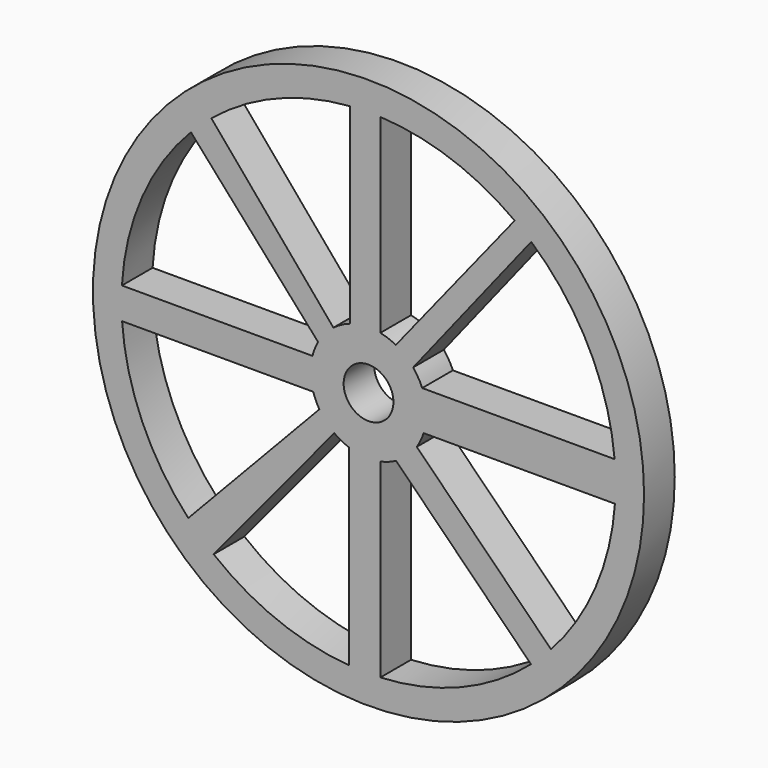
from build123d import *

# Parameters (mm, degrees)
F0_R     = 45.6259896436
F0_R_2   = 4.1211273184
F1_DEPTH = 6.35


with BuildPart() as f1:
    # F0 (on Front) → F1 (new body)
    with BuildSketch(Plane.XZ):
        Circle(F0_R)
        with BuildLine():
            ThreePointArc((26.9387830624, 30.7775847934), (36.470954286, 18.5155948342), (40.7444896447, 3.5838976254))
            ThreePointArc((40.7444896447, 3.5838976254), (40.8624582094, 1.7936743517), (40.9018062999, 0))
            ThreePointArc((40.9018062999, 0), (40.8759815199, -1.4532354863), (40.7985397907, -2.9046358709))
            ThreePointArc((40.7985397907, -2.9046358709), (37.5893922938, -16.1243711684), (30.2221637026, -27.5604531844))
            ThreePointArc((30.2221637026, -27.5604531844), (28.607441295, -29.2330645186), (26.9002945611, -30.8112302761))
            ThreePointArc((26.9002945611, -30.8112302761), (15.2785050027, -37.9410733043), (1.9589534657, -40.8548682523))
            ThreePointArc((1.9589534657, -40.8548682523), (-0.6279132634, -40.8969862402), (-3.2122676555, -40.7754717337))
            ThreePointArc((-3.2122676555, -40.7754717337), (-15.0951627835, -38.0143896325), (-25.6351881809, -31.8715372319))
            ThreePointArc((-25.6351881809, -31.8715372319), (-27.8094281015, -29.9932236891), (-29.8464395577, -27.9669055193))
            ThreePointArc((-29.8464395577, -27.9669055193), (-37.4955686427, -16.3413613495), (-40.8041913624, -2.8241327614))
            ThreePointArc((-40.8041913624, -2.8241327614), (-40.9011586976, -0.2301646997), (-40.8333908562, 2.3647303828))
            ThreePointArc((-40.8333908562, 2.3647303828), (-37.4601102977, 16.4224813922), (-29.4070104311, 28.4286034849))
            ThreePointArc((-29.4070104311, 28.4286034849), (-27.7581509338, 30.0406859997), (-26.0210613004, 31.5572832702))
            ThreePointArc((-26.0210613004, 31.5572832702), (-15.2607911904, 37.9482016812), (-3.071760695, 40.7862972679))
            ThreePointArc((-3.071760695, 40.7862972679), (-0.5574589468, 40.8980072634), (1.9589534657, 40.8548682523))
            ThreePointArc((1.9589534657, 40.8548682523), (13.6603015391, 38.5532608278), (24.2003808104, 32.9742221626))
            ThreePointArc((24.2003808104, 32.9742221626), (25.5931597177, 31.9052963356), (26.9387830624, 30.7775847934))
        make_face(mode=Mode.SUBTRACT)
        with BuildLine():
            ThreePointArc((9.127670154, -2.9046358709), (9.4652622904, -1.4697216595), (9.578688427, 0))
            ThreePointArc((9.578688427, 0), (9.403147418, 1.8254014949), (8.8829583919, 3.5838976254))
            ThreePointArc((8.8829583919, 3.5838976254), (8.230543526, 4.8999413516), (7.3845797964, 6.1007584129))
            ThreePointArc((7.3845797964, 6.1007584129), (6.0673005076, 7.4120939372), (4.5215615521, 8.4443326032))
            ThreePointArc((4.5215615521, 8.4443326032), (3.2735880938, 9.0019382898), (1.9589534657, 9.3762344948))
            ThreePointArc((1.9589534657, 9.3762344948), (-0.5767185533, 9.5613109819), (-3.071760695, 9.0727921951))
            ThreePointArc((-3.071760695, 9.0727921951), (-4.5020405313, 8.4547562375), (-5.8131998002, 7.6130138621))
            ThreePointArc((-5.8131998002, 7.6130138621), (-7.2315663483, 6.2813788401), (-8.3516090682, 4.6906180781))
            ThreePointArc((-8.3516090682, 4.6906180781), (-8.8932718668, 3.5582281386), (-9.282204598, 2.3647303828))
            ThreePointArc((-9.282204598, 2.3647303828), (-9.5757156031, -0.2386266333), (-9.1528982365, -2.8241327614))
            ThreePointArc((-9.1528982365, -2.8241327614), (-8.7176421964, -3.9691291889), (-8.1398212241, -5.0492160205))
            ThreePointArc((-8.1398212241, -5.0492160205), (-7.0331611015, -6.5027622517), (-5.6706666198, -7.7197676176))
            ThreePointArc((-5.6706666198, -7.7197676176), (-4.4890853229, -8.461641977), (-3.2122676555, -9.0240018003))
            ThreePointArc((-3.2122676555, -9.0240018003), (-0.6509347758, -9.5565451864), (1.9589534657, -9.3762344948))
            ThreePointArc((1.9589534657, -9.3762344948), (3.2963804694, -8.9936170578), (4.5642841947, -8.4213171043))
            ThreePointArc((4.5642841947, -8.4213171043), (6.4725367152, -7.0609872152), (7.9933647781, -5.2780101845))
            ThreePointArc((7.9933647781, -5.2780101845), (8.6423773173, -4.1304462578), (9.127670154, -2.9046358709))
        make_face()
        Circle(F0_R_2, mode=Mode.SUBTRACT)
        with BuildLine():
            ThreePointArc((8.8829583919, 3.5838976254), (9.403147418, 1.8254014949), (9.578688427, 0))
            ThreePointArc((9.578688427, 0), (9.4652622904, -1.4697216595), (9.127670154, -2.9046358709))
            Line((9.127670154, -2.9046358709), (40.7985397907, -2.9046358709))
            ThreePointArc((40.7985397907, -2.9046358709), (40.8759815199, -1.4532354863), (40.9018062999, 0))
            ThreePointArc((40.9018062999, 0), (40.8624582094, 1.7936743517), (40.7444896447, 3.5838976254))
            Line((40.7444896447, 3.5838976254), (8.8829583919, 3.5838976254))
        make_face()
        with BuildLine():
            ThreePointArc((-9.1528982365, -2.8241327614), (-9.5757156031, -0.2386266333), (-9.282204598, 2.3647303828))
            Line((-9.282204598, 2.3647303828), (-40.8333908562, 2.3647303828))
            ThreePointArc((-40.8333908562, 2.3647303828), (-40.9011586976, -0.2301646997), (-40.8041913624, -2.8241327614))
            Line((-40.8041913624, -2.8241327614), (-9.1528982365, -2.8241327614))
        make_face()
        with BuildLine():
            Line((1.9589534657, -40.8548682523), (1.9589534657, -9.3762344948))
            ThreePointArc((1.9589534657, -9.3762344948), (-0.6509347758, -9.5565451864), (-3.2122676555, -9.0240018003))
            Line((-3.2122676555, -9.0240018003), (-3.2122676555, -40.7754717337))
            ThreePointArc((-3.2122676555, -40.7754717337), (-0.6279132634, -40.8969862402), (1.9589534657, -40.8548682523))
        make_face()
        with BuildLine():
            ThreePointArc((-3.071760695, 9.0727921951), (-0.5767185533, 9.5613109819), (1.9589534657, 9.3762344948))
            Line((1.9589534657, 9.3762344948), (1.9589534657, 40.8548682523))
            ThreePointArc((1.9589534657, 40.8548682523), (-0.5574589468, 40.8980072634), (-3.071760695, 40.7862972679))
            Line((-3.071760695, 40.7862972679), (-3.071760695, 9.0727921951))
        make_face()
        with BuildLine():
            Line((-25.6351881809, -31.8715372319), (-5.6706666198, -7.7197676176))
            ThreePointArc((-5.6706666198, -7.7197676176), (-7.0331611015, -6.5027622517), (-8.1398212241, -5.0492160205))
            Line((-8.1398212241, -5.0492160205), (-29.8464395577, -27.9669055193))
            ThreePointArc((-29.8464395577, -27.9669055193), (-27.8094281015, -29.9932236891), (-25.6351881809, -31.8715372319))
        make_face()
        with BuildLine():
            Line((30.2221637026, -27.5604531844), (7.9933647781, -5.2780101845))
            ThreePointArc((7.9933647781, -5.2780101845), (6.4725367152, -7.0609872152), (4.5642841947, -8.4213171043))
            Line((4.5642841947, -8.4213171043), (26.9002945611, -30.8112302761))
            ThreePointArc((26.9002945611, -30.8112302761), (28.607441295, -29.2330645186), (30.2221637026, -27.5604531844))
        make_face()
        with BuildLine():
            ThreePointArc((-8.3516090682, 4.6906180781), (-7.2315663483, 6.2813788401), (-5.8131998002, 7.6130138621))
            Line((-5.8131998002, 7.6130138621), (-26.0210613004, 31.5572832702))
            ThreePointArc((-26.0210613004, 31.5572832702), (-27.7581509338, 30.0406859997), (-29.4070104311, 28.4286034849))
            Line((-29.4070104311, 28.4286034849), (-8.3516090682, 4.6906180781))
        make_face()
        with BuildLine():
            ThreePointArc((4.5215615521, 8.4443326032), (6.0673005076, 7.4120939372), (7.3845797964, 6.1007584129))
            Line((7.3845797964, 6.1007584129), (26.9387830624, 30.7775847934))
            ThreePointArc((26.9387830624, 30.7775847934), (25.5931597177, 31.9052963356), (24.2003808104, 32.9742221626))
            Line((24.2003808104, 32.9742221626), (4.5215615521, 8.4443326032))
        make_face()
    extrude(amount=F1_DEPTH)


solid = f1.part
